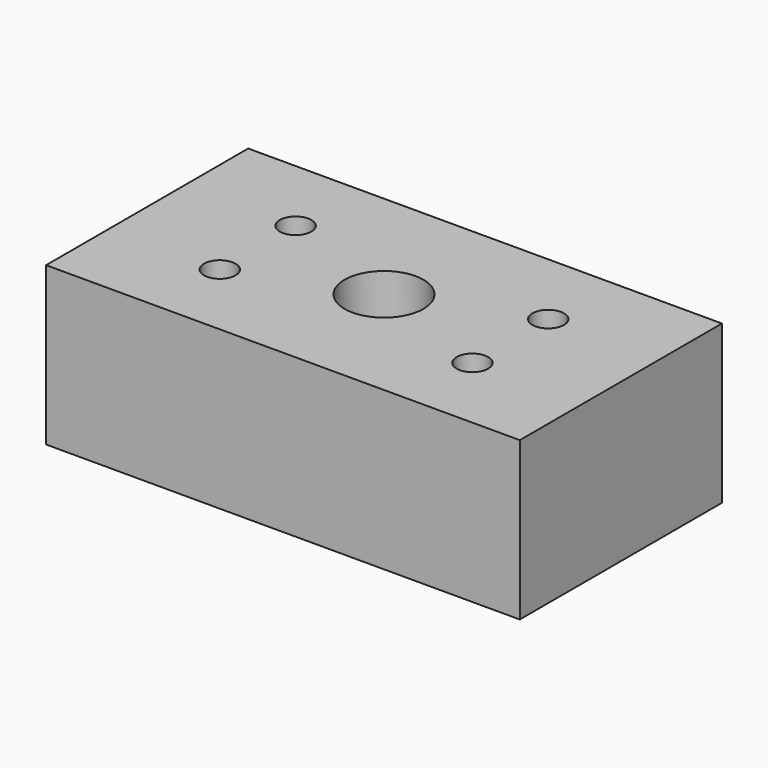
from build123d import *

# Parameters (mm, degrees)
F0_W     = 150
F0_H     = 80
F1_DEPTH = 50
F2_R     = 12.5
F3_DEPTH = 20
F2_R_2   = 5
F4_DEPTH = 10


with BuildPart() as f1:
    # F0 (on Top) → F1 (new body)
    with BuildSketch(Plane.XY):
        with Locations((75, 40)):
            Rectangle(F0_W, F0_H)
    extrude(amount=-F1_DEPTH)

    # F2 (on face) → F3 (cut)
    with BuildSketch(Plane.XY):
        with Locations((75, 40)):
            Circle(F2_R)
    extrude(amount=-F3_DEPTH, mode=Mode.SUBTRACT)

    # F2 (on face) → F4 (cut)
    with BuildSketch(Plane.XY):
        with Locations((35, 55)):
            Circle(F2_R_2)
        with Locations((115, 55)):
            Circle(F2_R_2)
        with Locations((35, 25)):
            Circle(F2_R_2)
        with Locations((115, 25)):
            Circle(F2_R_2)
    extrude(amount=-F4_DEPTH, mode=Mode.SUBTRACT)


solid = f1.part
